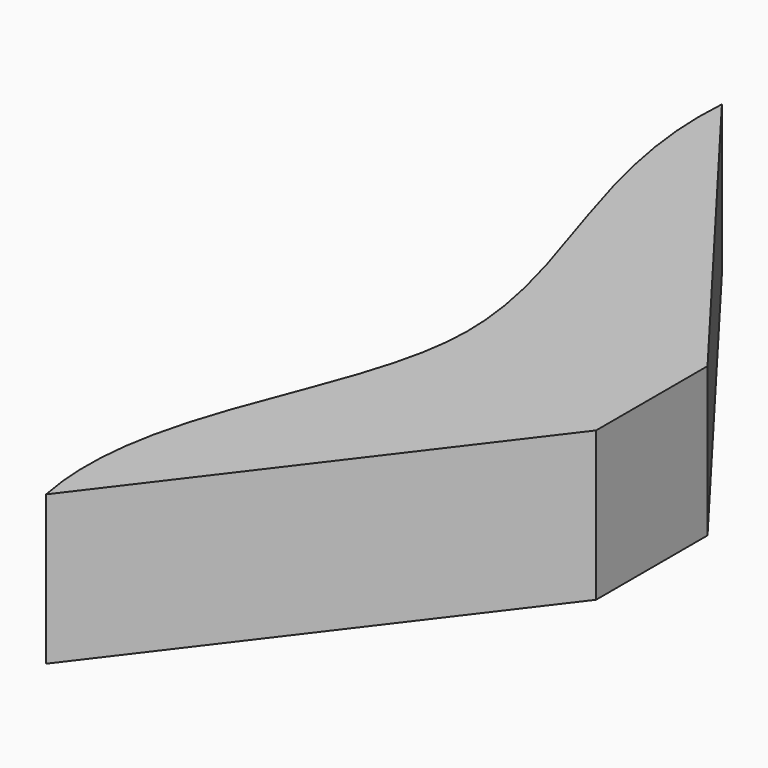
from build123d import *

# Parameters (mm, degrees)
F1_DEPTH = 2.5
F2_DEPTH = 2.5


with BuildPart() as f1:
    # F0 (on Top) → F1 (new body, symmetric)
    with BuildSketch(Plane.XY):
        with BuildLine():
            Line((-30.3908251226, 29.6063516289), (-30.3908251226, 34.2774875462))
            Line((-30.3908251226, 34.2774875462), (-39.3713861704, 46.1067445576))
            add(Edge.make_bspline(
                [(-39.3713861704, 46.1067445576), (-39.7643410618, 40.8269949087), (-32.9860138131, 31.2744426607), (-40.4264005864, 23.1511947098), (-39.3713861704, 17.7770946175)],
                knots=[0, 0, 0, 0, 0.5075212617, 1, 1, 1, 1], degree=3))
            Line((-39.3713861704, 17.7770946175), (-30.3908251226, 29.6063516289))
        make_face()
    extrude(amount=F1_DEPTH, both=True)

    # F0 (on Top) → F2 (join, symmetric)
    with BuildSketch(Plane.XY):
        with BuildLine():
            Line((-30.3908251226, 29.6063516289), (-30.3908251226, 34.2774875462))
            Line((-30.3908251226, 34.2774875462), (-39.3713861704, 46.1067445576))
            add(Edge.make_bspline(
                [(-39.3713861704, 46.1067445576), (-39.7643410618, 40.8269949087), (-32.9860138131, 31.2744426607), (-40.4264005864, 23.1511947098), (-39.3713861704, 17.7770946175)],
                knots=[0, 0, 0, 0, 0.5075212617, 1, 1, 1, 1], degree=3))
            Line((-39.3713861704, 17.7770946175), (-30.3908251226, 29.6063516289))
        make_face()
    extrude(amount=F2_DEPTH, both=True)


solid = f1.part
